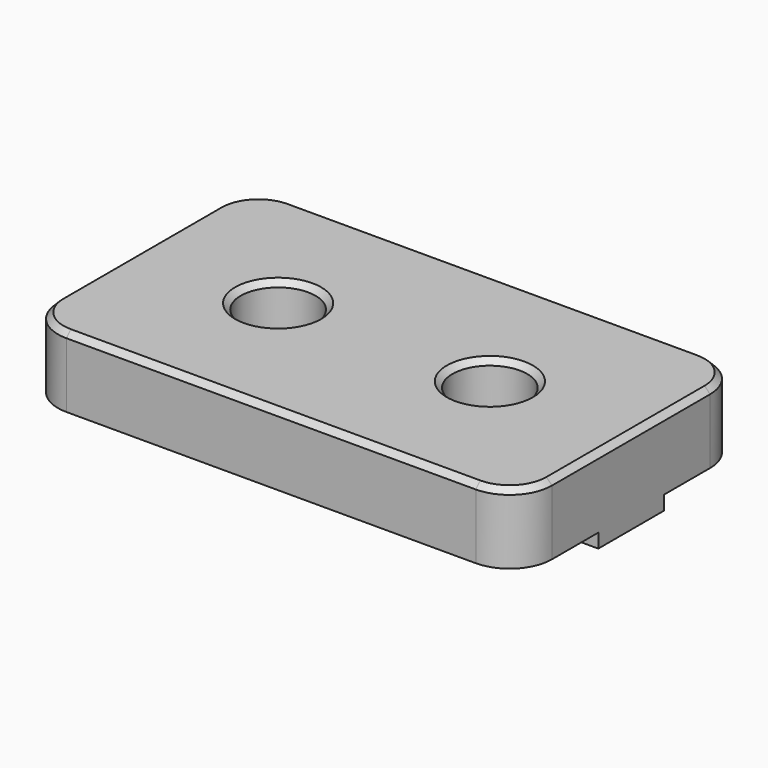
from build123d import *

# Parameters (mm, degrees)
CYLINDER001_R     = 2.65
CYLINDER001_DEPTH = 14
CYLINDER_R        = 2.65
CYLINDER_DEPTH    = 14
BOX_W             = 35
BOX_H             = 20
BOX_DEPTH         = 5
FILLET_R          = 3
BOX001_W          = 35
BOX001_H          = 5.8
BOX001_DEPTH      = 2
CHAMFER_SIZE      = 0.4


with BuildPart() as cylinder001:
    # Cylinder001 → Cylinder001 (new body)
    with BuildSketch(Plane(origin=(20, 10, -5), x_dir=(1, 0, 0), z_dir=(0, 0, 1))):
        Circle(CYLINDER001_R)
    extrude(amount=CYLINDER001_DEPTH)


with BuildPart() as fusion001:
    # Cylinder → Cylinder (new body)
    with BuildSketch(Plane(origin=(5, 10, -5), x_dir=(1, 0, 0), z_dir=(0, 0, 1))):
        Circle(CYLINDER_R)
    extrude(amount=CYLINDER_DEPTH)

    # Fusion001: union Cylinder001
    add(cylinder001.part)


with BuildPart() as fillet_body:
    # Box → Box (new body)
    with BuildSketch(Plane(origin=(-5, 0, 0), x_dir=(1, 0, 0), z_dir=(0, 0, 1))):
        with Locations((17.5, 10)):
            Rectangle(BOX_W, BOX_H)
    extrude(amount=BOX_DEPTH)

    # Fillet
    fillet_edges = [fillet_body.edges().sort_by_distance(p)[0] for p in [
        (-5, 0, 2.5),
        (-5, 20, 2.5),
        (30, 0, 2.5),
        (30, 20, 2.5),
    ]]
    fillet(fillet_edges, radius=FILLET_R)


with BuildPart() as chamfer_body:
    # Box001 → Box001 (new body)
    with BuildSketch(Plane(origin=(-5, 7.1, -1), x_dir=(1, 0, 0), z_dir=(0, 0, 1))):
        with Locations((17.5, 2.9)):
            Rectangle(BOX001_W, BOX001_H)
    extrude(amount=BOX001_DEPTH)

    # Fusion: union Fillet body
    add(fillet_body.part)

    # Cut: cut Fusion001
    add(fusion001.part, mode=Mode.SUBTRACT)

    # Chamfer
    chamfer_edges = [chamfer_body.edges().sort_by_distance(p)[0] for p in [
        (-5, 10, 5),
        (2.35, 10, 5),
        (17.35, 10, 5),
        (30, 10, 5),
        (29.12132, 0.87868, 5),
        (12.5, 0, 5),
        (-4.12132, 0.87868, 5),
        (-4.12132, 19.12132, 5),
        (12.5, 20, 5),
        (29.12132, 19.12132, 5),
    ]]
    chamfer(chamfer_edges, length=CHAMFER_SIZE)


solid = chamfer_body.part
